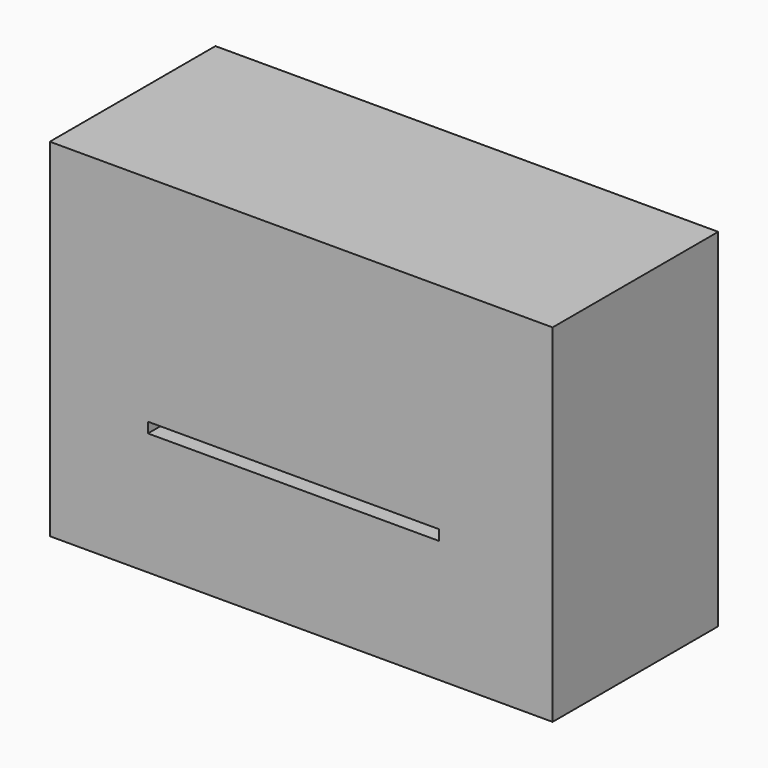
from build123d import *

# Parameters (mm, degrees)
F0_W     = 54.8596456647
F0_H     = 80.466017127
F0_W_2   = 5
F0_H_2   = 59.1205935925
F0_W_3   = 90.1321785152
F1_DEPTH = 100
F2_DEPTH = 90


with BuildPart() as f1:
    # F0 (on Front) → F1 (new body)
    with BuildSketch(Plane.XZ):
        Polygon((-9.4276834279, 80.466017127), (-108.4946319461, 80.466017127), (-108.4946319461, -87.3086377978), (-61.0916242003, -87.3086377978), (-61.0916242003, -28.1880442053), (-61.0916242003, -23.1880433857), (-56.0916242003, -23.1880433857), (79.5195177197, -23.1880433857), (79.5195177197, 0), (79.5195177197, 80.466017127), align=None)
        with Locations((106.9493405521, 40.2330085635)):
            Rectangle(F0_W, F0_H)
        with Locations((-58.5916242003, -57.7483410016)):
            Rectangle(F0_W_2, F0_H_2)
        Polygon((134.3791633844, 0), (79.5195177197, 0), (79.5195177197, -23.1880433857), (79.5195177197, -28.1880442053), (39.0405543149, -28.1880442053), (39.0405543149, -87.3086377978), (134.3791633844, -87.3086377978), align=None)
        with Locations((-11.0255349427, -57.7483410016)):
            Rectangle(F0_W_3, F0_H_2)
        with Locations((36.5405543149, -57.7483410016)):
            Rectangle(F0_W_2, F0_H_2)
    extrude(amount=F1_DEPTH)

    # F0 (on Front) → F2 (cut)
    with BuildSketch(Plane.XZ):
        with Locations((-11.0255349427, -57.7483410016)):
            Rectangle(F0_W_3, F0_H_2)
    extrude(amount=-F2_DEPTH, mode=Mode.SUBTRACT)


solid = f1.part
